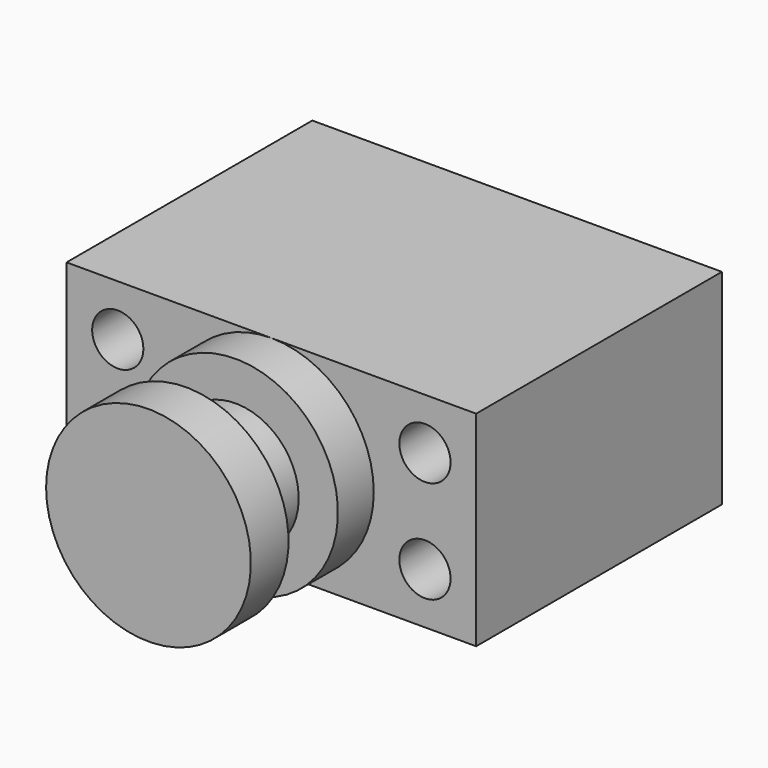
from build123d import *

# Parameters (mm, degrees)
F0_W     = 101.6
F0_H     = 50.8
F1_DEPTH = 76.2
F2_R     = 6.35
F3_DEPTH = 76.201
F4_W     = 25.4
F4_H     = 38.1
F6_W     = 0.105277
F6_H     = 15.308836
F6_W_2   = 9.73333


with BuildPart() as f1:
    # F0 (on Front) → F1 (new body)
    with BuildSketch(Plane.XZ):
        Rectangle(F0_W, F0_H)
    extrude(amount=F1_DEPTH)

    # F2 (on face) → F3 (cut, through all)
    with BuildSketch(Plane.XZ.offset(76.2)):
        with Locations((-38.1, 12.7)):
            Circle(F2_R)
        with Locations((-38.1, -12.7)):
            Circle(F2_R)
        with Locations((38.1, 12.7)):
            Circle(F2_R)
        with Locations((38.1, -12.7)):
            Circle(F2_R)
    extrude(amount=-F3_DEPTH, mode=Mode.SUBTRACT)

    # F4 (on Top) → F5 (revolve)
    with BuildSketch(Plane.XY):
        with Locations((-12.7, -95.25)):
            Rectangle(F4_W, F4_H)
    revolve(axis=Axis((0, -95.25, 0), (0, -1, 0)))

    # F6 (on Top) → F7 (revolve, cut)
    with BuildSketch(Plane.XY):
        with Locations((-25.452638, -94.963487)):
            Rectangle(F6_W, F6_H)
        with Locations((-20.533335, -94.963487)):
            Rectangle(F6_W_2, F6_H)
    revolve(axis=Axis((0, -61.931949, 0), (0, 1, 0)), mode=Mode.SUBTRACT)


solid = f1.part
